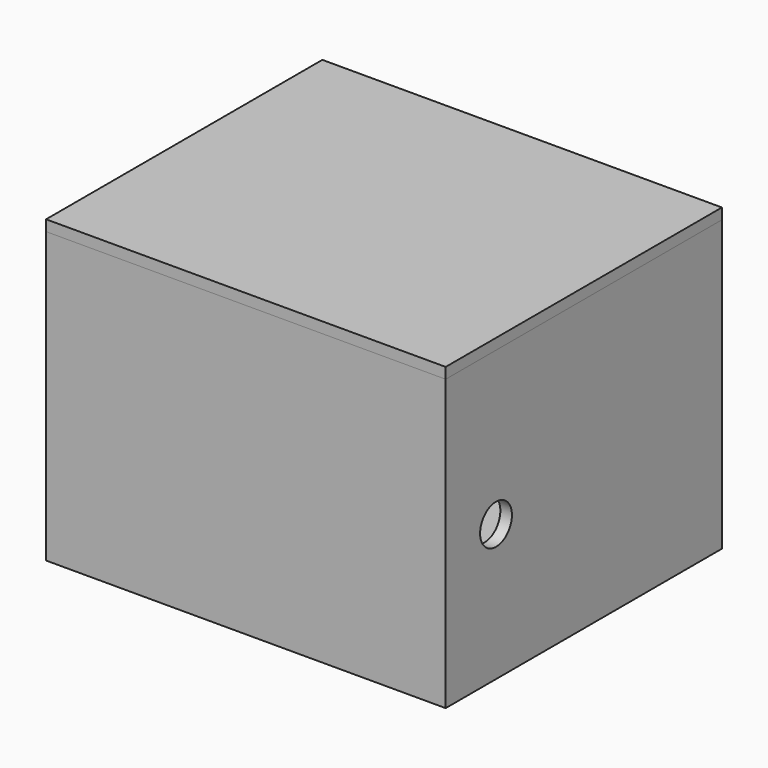
from build123d import *

# Parameters (mm, degrees)
F0_W      = 55.2
F0_H      = 47.7
F0_W_2    = 52
F0_H_2    = 44.5
F1_DEPTH  = 1.5
F2_DEPTH  = 40
F3_W      = 22
F3_H      = 26
F4_DEPTH  = 1.6
F5_R      = 2.75
F6_DEPTH  = 55.201
F7_W      = 55.2
F7_H      = 47.7
F8_DEPTH  = 1.5
F9_W      = 51.7
F9_H      = 44.2
F10_DEPTH = 1


with BuildPart() as f1:
    # F0 (on Top) → F1 (new body)
    with BuildSketch(Plane.XY):
        Rectangle(F0_W, F0_H)
        Rectangle(F0_W_2, F0_H_2, mode=Mode.SUBTRACT)
        Rectangle(F0_W_2, F0_H_2)
    extrude(amount=F1_DEPTH)

    # F0 (on Top) → F2 (join)
    with BuildSketch(Plane.XY):
        Rectangle(F0_W, F0_H)
        Rectangle(F0_W_2, F0_H_2, mode=Mode.SUBTRACT)
    extrude(amount=F2_DEPTH)

    # F3 (on face) → F4 (cut, through all)
    with BuildSketch(Plane(origin=(0, 23.85, 0), x_dir=(-1, 0, 0), z_dir=(0, 1, 0))):
        with Locations((-0.6, 22)):
            Rectangle(F3_W, F3_H)
    extrude(amount=-F4_DEPTH, mode=Mode.SUBTRACT)

    # F5 (on face) → F6 (cut, through all)
    with BuildSketch(Plane.YZ.offset(27.6)):
        with Locations((-15.159763, 18.831952)):
            Circle(F5_R)
    extrude(amount=-F6_DEPTH, mode=Mode.SUBTRACT)


with BuildPart() as f8:
    # F7 (on face) → F8 (new body)
    with BuildSketch(Plane.XY.offset(40)):
        Rectangle(F7_W, F7_H)
    extrude(amount=F8_DEPTH)

    # F9 (on face) → F10 (join)
    with BuildSketch(Plane(origin=(0, 0, 40), x_dir=(1, 0, 0), z_dir=(0, 0, -1))):
        Rectangle(F9_W, F9_H)
    extrude(amount=F10_DEPTH)


solid = Compound([f1.part, f8.part])
